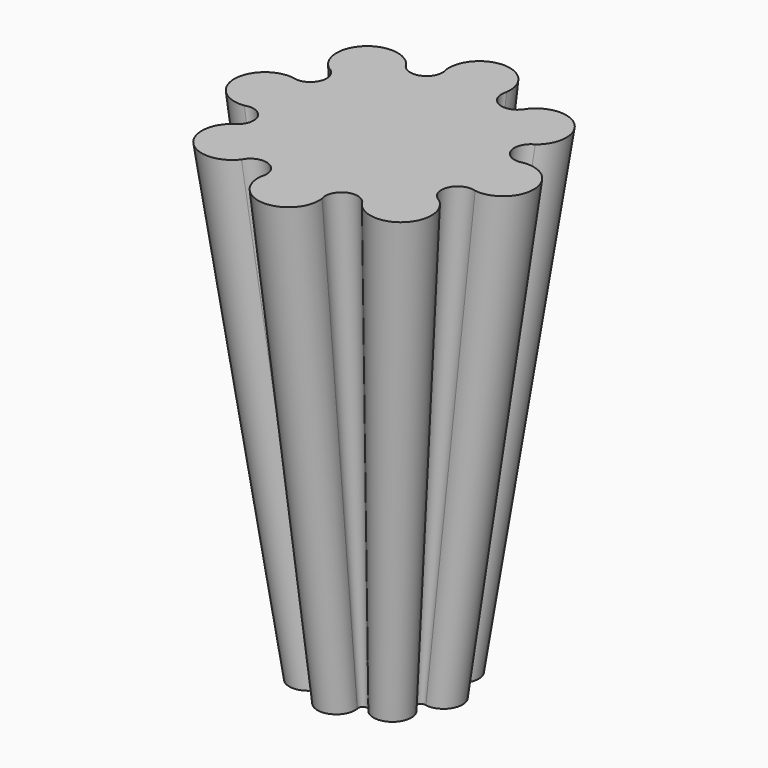
from build123d import *


with BuildPart() as f3:
    # F0 (on Top) → F3 section 0
    with BuildSketch(Plane.XY):
        with BuildLine():
            ThreePointArc((11.91593, 3.907013), (10.670413, 4.41983), (11.18851, 5.66316))
            ThreePointArc((11.18851, 5.66316), (11.63221, 11.63221), (5.66316, 11.18851))
            ThreePointArc((5.66316, 11.18851), (4.41983, 10.670413), (3.907013, 11.91593))
            ThreePointArc((3.907013, 11.91593), (0, 16.450429), (-3.907013, 11.91593))
            ThreePointArc((-3.907013, 11.91593), (-4.41983, 10.670413), (-5.66316, 11.18851))
            ThreePointArc((-5.66316, 11.18851), (-11.63221, 11.63221), (-11.18851, 5.66316))
            ThreePointArc((-11.18851, 5.66316), (-10.670413, 4.41983), (-11.91593, 3.907013))
            ThreePointArc((-11.91593, 3.907013), (-16.450429, 0), (-11.91593, -3.907013))
            ThreePointArc((-11.91593, -3.907013), (-10.670413, -4.41983), (-11.18851, -5.66316))
            ThreePointArc((-11.18851, -5.66316), (-11.63221, -11.63221), (-5.66316, -11.18851))
            ThreePointArc((-5.66316, -11.18851), (-4.41983, -10.670413), (-3.907013, -11.91593))
            ThreePointArc((-3.907013, -11.91593), (0, -16.450429), (3.907013, -11.91593))
            ThreePointArc((3.907013, -11.91593), (4.41983, -10.670413), (5.66316, -11.18851))
            ThreePointArc((5.66316, -11.18851), (11.63221, -11.63221), (11.18851, -5.66316))
            ThreePointArc((11.18851, -5.66316), (10.670413, -4.41983), (11.91593, -3.907013))
            ThreePointArc((11.91593, -3.907013), (16.450429, 0), (11.91593, 3.907013))
        make_face()
    # F2 (on offset) → F3 section 1
    with BuildSketch(Plane.XY.offset(100)):
        with BuildLine():
            ThreePointArc((24.202745, 6.351012), (19.955006, 8.265634), (21.604769, 12.623082))
            ThreePointArc((21.604769, 12.623082), (22.203759, 22.203759), (12.623082, 21.604769))
            ThreePointArc((12.623082, 21.604769), (8.265634, 19.955006), (6.351012, 24.202745))
            ThreePointArc((6.351012, 24.202745), (0, 31.400857), (-6.351012, 24.202745))
            ThreePointArc((-6.351012, 24.202745), (-8.265634, 19.955006), (-12.623082, 21.604769))
            ThreePointArc((-12.623082, 21.604769), (-22.203759, 22.203759), (-21.604769, 12.623082))
            ThreePointArc((-21.604769, 12.623082), (-19.955006, 8.265634), (-24.202745, 6.351012))
            ThreePointArc((-24.202745, 6.351012), (-31.400857, 0), (-24.202745, -6.351012))
            ThreePointArc((-24.202745, -6.351012), (-19.955006, -8.265634), (-21.604769, -12.623082))
            ThreePointArc((-21.604769, -12.623082), (-22.203759, -22.203759), (-12.623082, -21.604769))
            ThreePointArc((-12.623082, -21.604769), (-8.265634, -19.955006), (-6.351012, -24.202745))
            ThreePointArc((-6.351012, -24.202745), (0, -31.400857), (6.351012, -24.202745))
            ThreePointArc((6.351012, -24.202745), (8.265634, -19.955006), (12.623082, -21.604769))
            ThreePointArc((12.623082, -21.604769), (22.203759, -22.203759), (21.604769, -12.623082))
            ThreePointArc((21.604769, -12.623082), (19.955006, -8.265634), (24.202745, -6.351012))
            ThreePointArc((24.202745, -6.351012), (31.400857, 0), (24.202745, 6.351012))
        make_face()
    loft()


solid = f3.part
